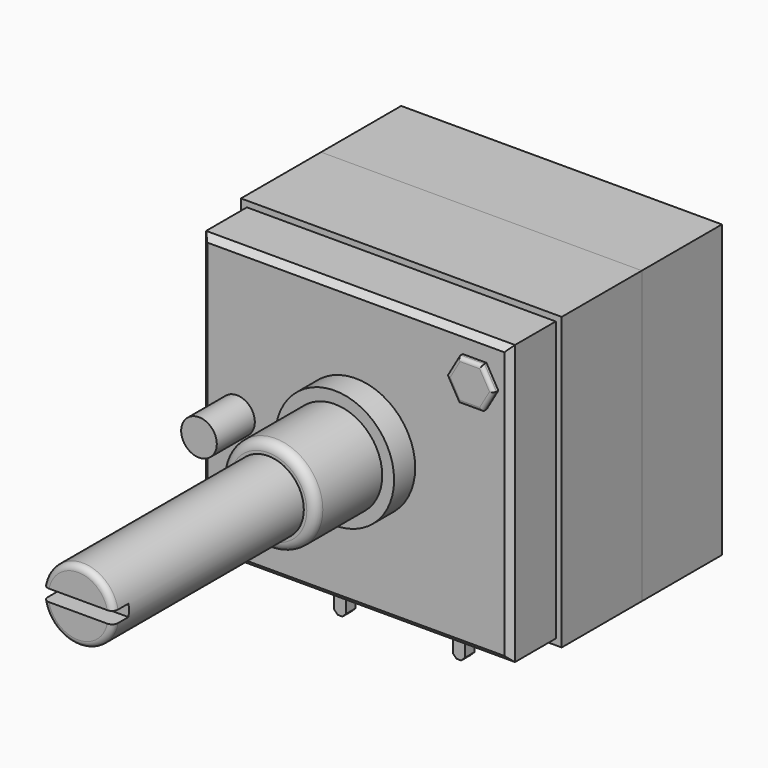
from build123d import *

# Parameters (mm, degrees)
BOX_W             = 27
BOX_H             = 8.43
BOX_DEPTH         = 24.5
BOX001_W          = 27
BOX001_H          = 24.5
BOX001_DEPTH      = 8.43
BOX002_W          = 26
BOX002_H          = 23.5
BOX002_DEPTH      = 6.22
CHAMFER_SIZE      = 0.5
CYLINDER_R        = 5
CYLINDER_DEPTH    = 2.22
CYLINDER001_R     = 4
CYLINDER001_DEPTH = 7
FILLET_R          = 0.75
CYLINDER002_R     = 3
CYLINDER002_DEPTH = 20
FILLET001_R       = 0.5
BOX003_W          = 7
BOX003_H          = 1
BOX003_DEPTH      = 1.6
CYLINDER003_R     = 1.5
CYLINDER003_DEPTH = 4
BOX004_W          = 1
BOX004_H          = 1
BOX004_DEPTH      = 4
CHAMFER005_SIZE   = 0.3
CHAMFER006_SIZE   = 0.3
BOX005_W          = 1
BOX005_H          = 1
BOX005_DEPTH      = 4
CHAMFER003_SIZE   = 0.3
CHAMFER004_SIZE   = 0.3
BOX006_W          = 1
BOX006_H          = 1
BOX006_DEPTH      = 4
CHAMFER001_SIZE   = 0.3
CHAMFER002_SIZE   = 0.3
PRISM_DEPTH       = 7.5
FILLET002_R       = 0.3
PRISM001_DEPTH    = 7.5
FILLET003_R       = 0.3


with BuildPart() as body:
    # Box → Box (join)
    with BuildSketch(Plane.XY):
        with Locations((13.5, 4.215)):
            Rectangle(BOX_W, BOX_H)
    extrude(amount=BOX_DEPTH)


with BuildPart() as body001:
    # Box001 → Box001 (join)
    with BuildSketch(Plane.XZ):
        with Locations((13.5, 12.25)):
            Rectangle(BOX001_W, BOX001_H)
    extrude(amount=BOX001_DEPTH)

    # Box002 → Box002 (join)
    with BuildSketch(Plane(origin=(0.5, -7, 0.5), x_dir=(1, 0, 0), z_dir=(0, -1, 0))):
        with Locations((13, 11.75)):
            Rectangle(BOX002_W, BOX002_H)
    extrude(amount=BOX002_DEPTH)

    # Chamfer
    chamfer_edges = [body001.edges().sort_by_distance(p)[0] for p in [
        (13.5, -13.22, 24),
        (26.5, -13.22, 12.25),
        (13.5, -13.22, 0.5),
        (0.5, -13.22, 12.25),
    ]]
    chamfer(chamfer_edges, length=CHAMFER_SIZE)


with BuildPart() as body002:
    # Cylinder → Cylinder (join)
    with BuildSketch(Plane(origin=(13.5, -13.22, 12.5), x_dir=(1, 0, 0), z_dir=(0, -1, 0))):
        Circle(CYLINDER_R)
    extrude(amount=CYLINDER_DEPTH)

    # Cylinder001 → Cylinder001 (join)
    with BuildSketch(Plane(origin=(13.5, -15.44, 12.5), x_dir=(1, 0, 0), z_dir=(0, -1, 0))):
        Circle(CYLINDER001_R)
    extrude(amount=CYLINDER001_DEPTH)

    # Fillet
    fillet_edges = [body002.edges().sort_by_distance(p)[0] for p in [
        (9.5, -22.44, 12.5),
    ]]
    fillet(fillet_edges, radius=FILLET_R)


with BuildPart() as body003:
    # Cylinder002 → Cylinder002 (join)
    with BuildSketch(Plane(origin=(13.5, -22.44, 12.5), x_dir=(1, 0, 0), z_dir=(0, -1, 0))):
        Circle(CYLINDER002_R)
    extrude(amount=CYLINDER002_DEPTH)

    # Fillet001
    fillet001_edges = [body003.edges().sort_by_distance(p)[0] for p in [
        (10.5, -42.44, 12.5),
    ]]
    fillet(fillet001_edges, radius=FILLET001_R)

    # Box003 → Box003 (cut)
    with BuildSketch(Plane(origin=(9.9, -40.84, 12), x_dir=(1, 0, 0), z_dir=(0, -1, 0))):
        with Locations((3.5, 0.5)):
            Rectangle(BOX003_W, BOX003_H)
    extrude(amount=BOX003_DEPTH, mode=Mode.SUBTRACT)

    # Cylinder003 → Cylinder003 (join)
    with BuildSketch(Plane(origin=(3.5, -13.22, 11.5), x_dir=(1, 0, 0), z_dir=(0, -1, 0))):
        Circle(CYLINDER003_R)
    extrude(amount=CYLINDER003_DEPTH)


with BuildPart() as body004:
    # Box004 → Box004 (join)
    with BuildSketch(Plane(origin=(7.5, -7, 0), x_dir=(1, 0, 0), z_dir=(0, 0, -1))):
        with Locations((0.5, 0.5)):
            Rectangle(BOX004_W, BOX004_H)
    extrude(amount=BOX004_DEPTH)

    # Chamfer005
    chamfer005_edges = [body004.edges().sort_by_distance(p)[0] for p in [
        (7.5, -7.5, -4),
    ]]
    chamfer(chamfer005_edges, length=CHAMFER005_SIZE)

    # Chamfer006
    chamfer006_edges = [body004.edges().sort_by_distance(p)[0] for p in [
        (8.5, -7.5, -4),
    ]]
    chamfer(chamfer006_edges, length=CHAMFER006_SIZE)


with BuildPart() as body005:
    # Box005 → Box005 (join)
    with BuildSketch(Plane(origin=(12.5, 1, 0), x_dir=(1, 0, 0), z_dir=(0, 0, -1))):
        with Locations((0.5, 0.5)):
            Rectangle(BOX005_W, BOX005_H)
    extrude(amount=BOX005_DEPTH)

    # Chamfer003
    chamfer003_edges = [body005.edges().sort_by_distance(p)[0] for p in [
        (12.5, 0.5, -4),
    ]]
    chamfer(chamfer003_edges, length=CHAMFER003_SIZE)

    # Chamfer004
    chamfer004_edges = [body005.edges().sort_by_distance(p)[0] for p in [
        (13.5, 0.5, -4),
    ]]
    chamfer(chamfer004_edges, length=CHAMFER004_SIZE)


with BuildPart() as body006:
    # Box006 → Box006 (join)
    with BuildSketch(Plane(origin=(17.5, -7, 0), x_dir=(1, 0, 0), z_dir=(0, 0, -1))):
        with Locations((0.5, 0.5)):
            Rectangle(BOX006_W, BOX006_H)
    extrude(amount=BOX006_DEPTH)

    # Chamfer001
    chamfer001_edges = [body006.edges().sort_by_distance(p)[0] for p in [
        (18.5, -7.5, -4),
    ]]
    chamfer(chamfer001_edges, length=CHAMFER001_SIZE)

    # Chamfer002
    chamfer002_edges = [body006.edges().sort_by_distance(p)[0] for p in [
        (17.5, -7.5, -4),
    ]]
    chamfer(chamfer002_edges, length=CHAMFER002_SIZE)


with BuildPart() as body007:
    # Prism → Prism (join)
    with BuildSketch(Plane(origin=(23.5, -6.22, 20.5), x_dir=(1, 0, 0), z_dir=(0, -1, 0))):
        Polygon((2, 0), (1, 1.732051), (-1, 1.732051), (-2, 0), (-1, -1.732051), (1, -1.732051), align=None)
    extrude(amount=PRISM_DEPTH)

    # Fillet002
    fillet002_edges = [body007.edges().sort_by_distance(p)[0] for p in [
        (22, -13.72, 21.366025),
        (23.5, -13.72, 22.232051),
        (25, -13.72, 21.366025),
        (25, -13.72, 19.633975),
        (23.5, -13.72, 18.767949),
        (22, -13.72, 19.633975),
    ]]
    fillet(fillet002_edges, radius=FILLET002_R)


with BuildPart() as body008:
    # Prism001 → Prism001 (join)
    with BuildSketch(Plane(origin=(3.5, -6.22, 3.5), x_dir=(1, 0, 0), z_dir=(0, -1, 0))):
        Polygon((2, 0), (1, 1.732051), (-1, 1.732051), (-2, 0), (-1, -1.732051), (1, -1.732051), align=None)
    extrude(amount=PRISM001_DEPTH)

    # Fillet003
    fillet003_edges = [body008.edges().sort_by_distance(p)[0] for p in [
        (5, -13.72, 4.366025),
        (3.5, -13.72, 5.232051),
        (2, -13.72, 4.366025),
        (2, -13.72, 2.633975),
        (3.5, -13.72, 1.767949),
        (5, -13.72, 2.633975),
    ]]
    fillet(fillet003_edges, radius=FILLET003_R)


solid = Compound([body.part, body001.part, body002.part, body003.part, body004.part, body005.part, body006.part, body007.part, body008.part])
